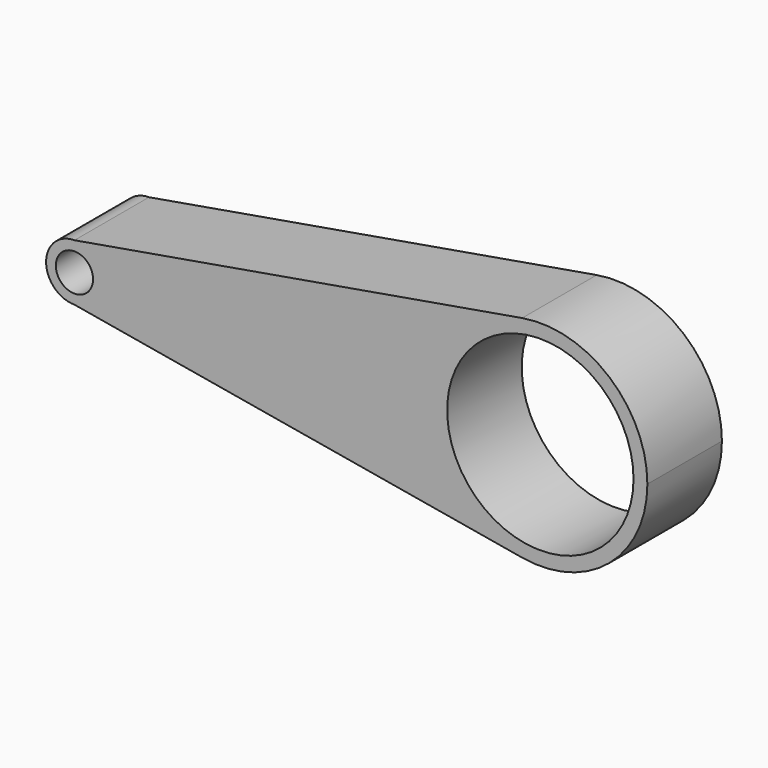
from build123d import *

# Parameters (mm, degrees)
F0_R     = 25.4
F0_R_2   = 5.08
F1_DEPTH = 25.4


with BuildPart() as f1:
    # F0 (on Front) → F1 (new body)
    with BuildSketch(Plane.XZ):
        with BuildLine():
            ThreePointArc((156.175944, 0), (145.798323, 22.312749), (122.047913, 28.75261))
            ThreePointArc((122.047913, 28.75261), (97.824056, 0), (122.047913, -28.75261))
            ThreePointArc((122.047913, -28.75261), (145.798323, -22.312749), (156.175944, 0))
        make_face()
        with Locations((127, 0)):
            Circle(F0_R, mode=Mode.SUBTRACT)
        with BuildLine():
            ThreePointArc((0, 7.732192), (5.467485, 5.467485), (7.732192, 0))
            ThreePointArc((7.732192, 0), (5.467485, -5.467485), (0, -7.732192))
            Line((0, -7.732192), (122.047913, -28.75261))
            ThreePointArc((122.047913, -28.75261), (97.824056, 0), (122.047913, 28.75261))
            Line((122.047913, 28.75261), (0, 7.732192))
        make_face()
        with BuildLine():
            ThreePointArc((0, -7.732192), (5.467485, -5.467485), (7.732192, 0))
            ThreePointArc((7.732192, 0), (5.467485, 5.467485), (0, 7.732192))
            ThreePointArc((0, 7.732192), (-7.732192, 0), (0, -7.732192))
        make_face()
        Circle(F0_R_2, mode=Mode.SUBTRACT)
    extrude(amount=F1_DEPTH)


solid = f1.part
